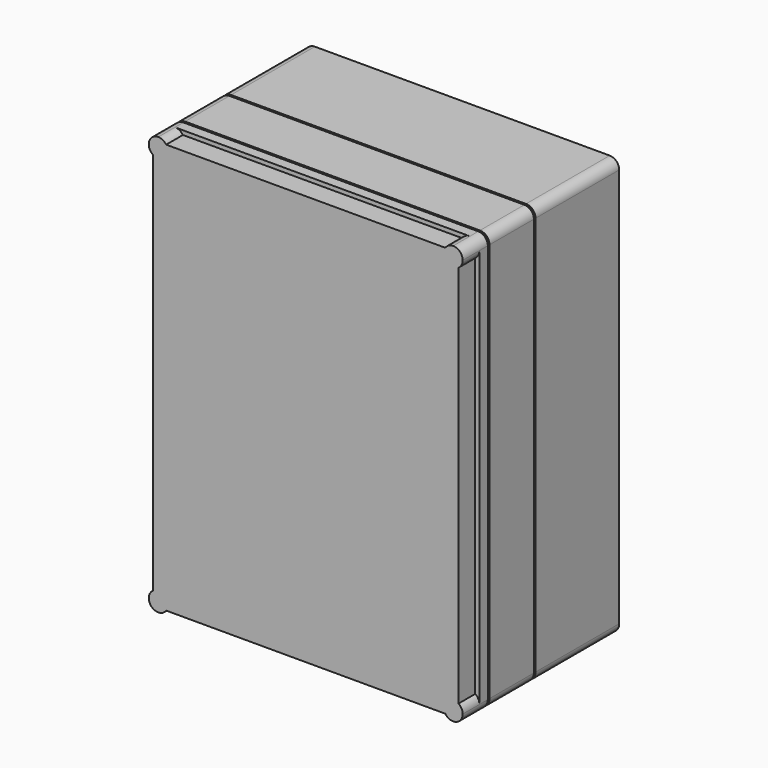
from build123d import *

# Parameters (mm, degrees)
F1_DEPTH  = 100
F3_DEPTH  = 2
F5_DEPTH  = 53
F7_DEPTH  = 2
F8_W      = 290
F8_H      = 390
F9_DEPTH  = 30
F11_DEPTH = 20


with BuildPart() as f1:
    # F0 (on Front) → F1 (new body)
    with BuildSketch(Plane.XZ):
        with BuildLine():
            Line((140.9, 200), (-140.9, 200))
            ThreePointArc((-140.9, 200), (-147.334672, 197.334672), (-150, 190.9))
            Line((-150, 190.9), (-150, -190.9))
            ThreePointArc((-150, -190.9), (-147.334672, -197.334672), (-140.9, -200))
            Line((-140.9, -200), (140.9, -200))
            ThreePointArc((140.9, -200), (147.334672, -197.334672), (150, -190.9))
            Line((150, -190.9), (150, 190.9))
            ThreePointArc((150, 190.9), (147.334672, 197.334672), (140.9, 200))
        make_face()
    extrude(amount=F1_DEPTH)

    # F2 (on face) → F3 (join)
    with BuildSketch(Plane.XZ.offset(100)):
        with BuildLine():
            ThreePointArc((149, 189.9), (146.334672, 196.334672), (139.9, 199))
            Line((139.9, 199), (-139.9, 199))
            ThreePointArc((-139.9, 199), (-146.334672, 196.334672), (-149, 189.9))
            Line((-149, 189.9), (-149, -189.9))
            ThreePointArc((-149, -189.9), (-146.334672, -196.334672), (-139.9, -199))
            Line((-139.9, -199), (139.9, -199))
            ThreePointArc((139.9, -199), (146.334672, -196.334672), (149, -189.9))
            Line((149, -189.9), (149, 189.9))
        make_face()
    extrude(amount=F3_DEPTH)


with BuildPart() as f5:
    # F4 (on face) → F5 (new body)
    with BuildSketch(Plane.XZ.offset(102)):
        with BuildLine():
            Line((-150, 190.9), (-150, -190.9))
            ThreePointArc((-150, -190.9), (-147.334672, -197.334672), (-140.9, -200))
            Line((-140.9, -200), (140.9, -200))
            ThreePointArc((140.9, -200), (147.334672, -197.334672), (150, -190.9))
            Line((150, -190.9), (150, 190.9))
            ThreePointArc((150, 190.9), (147.334672, 197.334672), (140.9, 200))
            Line((140.9, 200), (-140.9, 200))
            ThreePointArc((-140.9, 200), (-147.334672, 197.334672), (-150, 190.9))
        make_face()
        with BuildLine():
            ThreePointArc((139.9, 199), (146.334672, 196.334672), (149, 189.9))
            Line((149, 189.9), (149, -189.9))
            ThreePointArc((149, -189.9), (146.334672, -196.334672), (139.9, -199))
            Line((139.9, -199), (-139.9, -199))
            ThreePointArc((-139.9, -199), (-146.334672, -196.334672), (-149, -189.9))
            Line((-149, -189.9), (-149, 189.9))
            ThreePointArc((-149, 189.9), (-146.334672, 196.334672), (-139.9, 199))
            Line((-139.9, 199), (139.9, 199))
        make_face(mode=Mode.SUBTRACT)
        with BuildLine():
            Line((149, -189.9), (149, 189.9))
            ThreePointArc((149, 189.9), (146.334672, 196.334672), (139.9, 199))
            Line((139.9, 199), (-139.9, 199))
            ThreePointArc((-139.9, 199), (-146.334672, 196.334672), (-149, 189.9))
            Line((-149, 189.9), (-149, -189.9))
            ThreePointArc((-149, -189.9), (-146.334672, -196.334672), (-139.9, -199))
            Line((-139.9, -199), (139.9, -199))
            ThreePointArc((139.9, -199), (146.334672, -196.334672), (149, -189.9))
        make_face()
    extrude(amount=F5_DEPTH)

    # F6 (on face) → F7 (join)
    with BuildSketch(Plane.XZ.offset(155)):
        with BuildLine():
            Line((139.9, 199), (-139.9, 199))
            ThreePointArc((-139.9, 199), (-146.334672, 196.334672), (-149, 189.9))
            Line((-149, 189.9), (-149, -189.9))
            ThreePointArc((-149, -189.9), (-146.334672, -196.334672), (-139.9, -199))
            Line((-139.9, -199), (139.9, -199))
            ThreePointArc((139.9, -199), (146.334672, -196.334672), (149, -189.9))
            Line((149, -189.9), (149, 189.9))
            ThreePointArc((149, 189.9), (146.334672, 196.334672), (139.9, 199))
        make_face()
    extrude(amount=F7_DEPTH)


with BuildPart() as f9:
    # F8 (on face) → F9 (new body)
    with BuildSketch(Plane.XZ.offset(157)):
        with BuildLine():
            Line((140.9, 200), (-140.9, 200))
            ThreePointArc((-140.9, 200), (-147.334672, 197.334672), (-150, 190.9))
            Line((-150, 190.9), (-150, -190.9))
            ThreePointArc((-150, -190.9), (-147.334672, -197.334672), (-140.9, -200))
            Line((-140.9, -200), (140.9, -200))
            ThreePointArc((140.9, -200), (147.334672, -197.334672), (150, -190.9))
            Line((150, -190.9), (150, 190.9))
            ThreePointArc((150, 190.9), (147.334672, 197.334672), (140.9, 200))
        make_face()
        with BuildLine():
            Line((-139.9, 199), (139.9, 199))
            ThreePointArc((139.9, 199), (146.334672, 196.334672), (149, 189.9))
            Line((149, 189.9), (149, -189.9))
            ThreePointArc((149, -189.9), (146.334672, -196.334672), (139.9, -199))
            Line((139.9, -199), (-139.9, -199))
            ThreePointArc((-139.9, -199), (-146.334672, -196.334672), (-149, -189.9))
            Line((-149, -189.9), (-149, 189.9))
            ThreePointArc((-149, 189.9), (-146.334672, 196.334672), (-139.9, 199))
        make_face(mode=Mode.SUBTRACT)
        with BuildLine():
            ThreePointArc((149, 189.9), (146.334672, 196.334672), (139.9, 199))
            Line((139.9, 199), (-139.9, 199))
            ThreePointArc((-139.9, 199), (-146.334672, 196.334672), (-149, 189.9))
            Line((-149, 189.9), (-149, -189.9))
            ThreePointArc((-149, -189.9), (-146.334672, -196.334672), (-139.9, -199))
            Line((-139.9, -199), (139.9, -199))
            ThreePointArc((139.9, -199), (146.334672, -196.334672), (149, -189.9))
            Line((149, -189.9), (149, 189.9))
        make_face()
        Rectangle(F8_W, F8_H, mode=Mode.SUBTRACT)
        Rectangle(F8_W, F8_H)
    extrude(amount=F9_DEPTH)

    # F10 (on face) → F11 (cut)
    with BuildSketch(Plane.XZ.offset(187)):
        with BuildLine():
            Line((133, 200), (-133, 200))
            Line((-133, 200), (-140.9, 200))
            ThreePointArc((-140.9, 200), (-136.633854, 198.938035), (-133.363423, 196))
            Line((-133.363423, 196), (133.363423, 196))
            ThreePointArc((133.363423, 196), (136.633854, 198.938035), (140.9, 200))
            Line((140.9, 200), (133, 200))
        make_face()
        with BuildLine():
            ThreePointArc((-146, 183.363423), (-148.938035, 186.633854), (-150, 190.9))
            Line((-150, 190.9), (-150, -190.9))
            ThreePointArc((-150, -190.9), (-148.938035, -186.633854), (-146, -183.363423))
            Line((-146, -183.363423), (-146, 183.363423))
        make_face()
        with BuildLine():
            Line((150, -190.9), (150, 190.9))
            ThreePointArc((150, 190.9), (148.938035, 186.633854), (146, 183.363423))
            Line((146, 183.363423), (146, -183.363423))
            ThreePointArc((146, -183.363423), (148.938035, -186.633854), (150, -190.9))
        make_face()
        with BuildLine():
            ThreePointArc((-133.363423, -196), (-136.633854, -198.938035), (-140.9, -200))
            Line((-140.9, -200), (140.9, -200))
            ThreePointArc((140.9, -200), (136.633854, -198.938035), (133.363423, -196))
            Line((133.363423, -196), (-133.363423, -196))
        make_face()
    extrude(amount=-F11_DEPTH, mode=Mode.SUBTRACT)


solid = Compound([f1.part, f5.part, f9.part])
